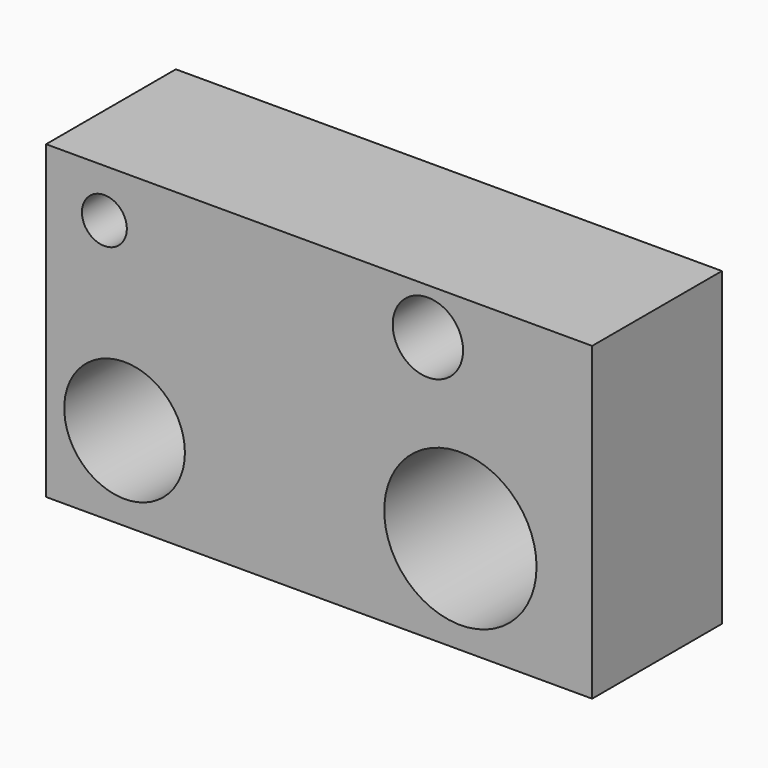
from build123d import *

# Parameters (mm, degrees)
F0_W     = 179.561608
F0_H     = 102.132581
F0_R     = 19.839357
F0_R_2   = 25.04106
F0_R_3   = 7.383404
F0_R_4   = 11.571845
F1_DEPTH = 53.34


with BuildPart() as f1:
    # F0 (on Front) → F1 (new body)
    with BuildSketch(Plane.XZ):
        with Locations((-3.502745, 1.843549)):
            Rectangle(F0_W, F0_H)
        with Locations((-67.473873, -21.569517)):
            Circle(F0_R, mode=Mode.SUBTRACT)
        with Locations((42.95468, -16.960645)):
            Circle(F0_R_2, mode=Mode.SUBTRACT)
        with Locations((-74.110642, 37.055321)):
            Circle(F0_R_3, mode=Mode.SUBTRACT)
        with Locations((32.262098, 37.792742)):
            Circle(F0_R_4, mode=Mode.SUBTRACT)
    extrude(amount=F1_DEPTH)


solid = f1.part
